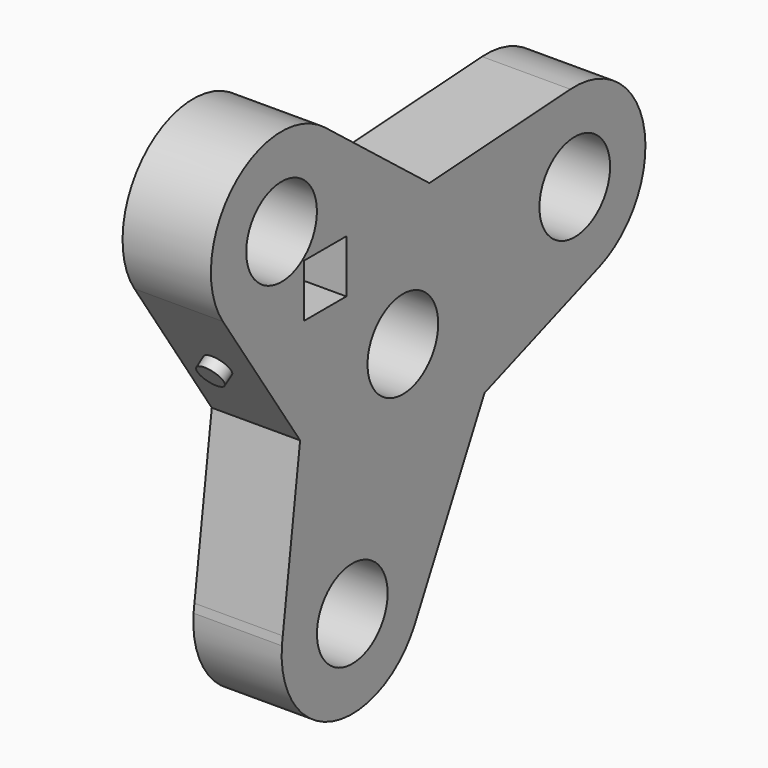
from build123d import *

# Parameters (mm, degrees)
F0_R     = 10
F1_DEPTH = 20
F2_R     = 3
F3_DEPTH = 2.5
F4_W     = 12
F4_H     = 12
F5_DEPTH = 30


with BuildPart() as f1:
    # F0 (on Right) → F1 (new body)
    with BuildSketch(Plane.YZ):
        with BuildLine():
            Line((7.481455, 29.052157), (-22.012425, 52.10852))
            ThreePointArc((-22.012425, 52.10852), (-47.949661, 50.997752), (-50.938718, 25.20939))
            Line((-50.938718, 25.20939), (-29.07978, -7.373356))
            ThreePointArc((-29.07978, -7.373356), (-21.17372, 21.252614), (7.481455, 29.052157))
        make_face()
        with Locations((-34.330039, 36.351732)):
            Circle(F0_R, mode=Mode.SUBTRACT)
        with BuildLine():
            Line((47.414482, 31.516835), (7.481455, 29.052157))
            ThreePointArc((7.481455, 29.052157), (23.711217, 18.378742), (30, 0))
            ThreePointArc((30, 0), (28.223022, -10.17158), (23.102597, -19.138182))
            Line((23.102597, -19.138182), (55.544301, -7.218058))
            ThreePointArc((55.544301, -7.218058), (68.220071, 15.662983), (47.414482, 31.516835))
        make_face()
        with Locations((48.646543, 11.55482)):
            Circle(F0_R, mode=Mode.SUBTRACT)
        with BuildLine():
            ThreePointArc((23.102597, -19.138182), (-6.598065, -29.265432), (-29.07978, -7.373356))
            Line((-29.07978, -7.373356), (-33.994642, -44.332917))
            Line((-33.994642, -44.332917), (-34.244702, -46.213358))
            ThreePointArc((-34.244702, -46.213358), (-19.868232, -67.120566), (3.443665, -57.103095))
            Line((3.443665, -57.103095), (23.102597, -19.138182))
        make_face()
        with Locations((-14.316504, -47.906552)):
            Circle(F0_R, mode=Mode.SUBTRACT)
        with BuildLine():
            ThreePointArc((30, 0), (23.711217, 18.378742), (7.481455, 29.052157))
            ThreePointArc((7.481455, 29.052157), (-21.17372, 21.252614), (-29.07978, -7.373356))
            ThreePointArc((-29.07978, -7.373356), (-6.598065, -29.265432), (23.102597, -19.138182))
            ThreePointArc((23.102597, -19.138182), (28.223022, -10.17158), (30, 0))
        make_face()
        Circle(F0_R, mode=Mode.SUBTRACT)
    extrude(amount=F1_DEPTH)

    # F2 (on face) → F3 (join, symmetric)
    with BuildSketch(Plane(origin=(0, -23.46529, -15.742268), x_dir=(1, 0, 0), z_dir=(0, -0.830434, -0.557117))):
        with Locations((10, 29.456303)):
            Circle(F2_R)
    extrude(amount=F3_DEPTH, both=True)

    # F4 (on face) → F5 (cut)
    with BuildSketch(Plane.YZ.offset(20)):
        with Locations((-22, 22)):
            Rectangle(F4_W, F4_H)
    extrude(amount=-F5_DEPTH, mode=Mode.SUBTRACT)


solid = f1.part
